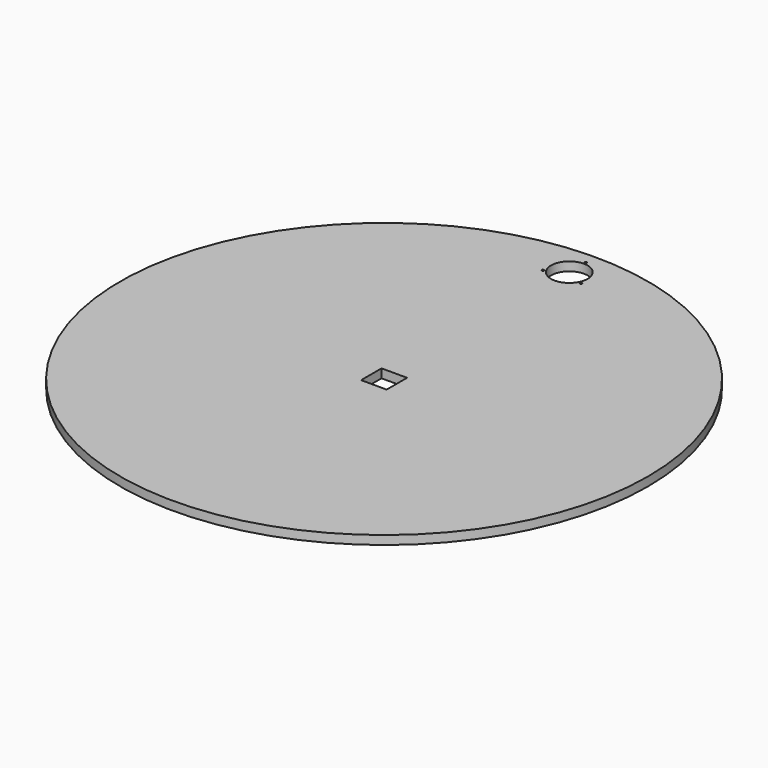
from build123d import *

# Parameters (mm, degrees)
F0_R     = 600
F0_W     = 58.1
F0_H     = 58.1
F1_DEPTH = 20
F3_R     = 41.5
F4_DEPTH = 20.001
F5_D     = 5.1054
F5_DEPTH = 15.81
F5_TIP   = 1.5338169022


with BuildPart() as f1:
    # F0 (on Top) → F1 (new body)
    with BuildSketch(Plane.XY):
        Circle(F0_R)
        Rectangle(F0_W, F0_H, mode=Mode.SUBTRACT)
    extrude(amount=F1_DEPTH)

    # F3 (on offset) → F4 (cut, through all)
    with BuildSketch(Plane.XY.offset(20)):
        with Locations((0.1939173973, 525.9999642548)):
            Circle(F3_R)
    extrude(amount=-F4_DEPTH, mode=Mode.SUBTRACT)

    # F5
    with Locations(Plane.XY.offset(20)):
        with Locations((-40.7258506305, 502.1913310914), (43.0168926358, 505.8476182242), (0.1938496983, 573.0663310914)):
            Hole(F5_D / 2, depth=F5_DEPTH)
            with Locations((0, 0, -(F5_DEPTH + F5_TIP / 2))):  # 118° drill point
                Cone(0, F5_D / 2, F5_TIP, mode=Mode.SUBTRACT)


solid = f1.part
